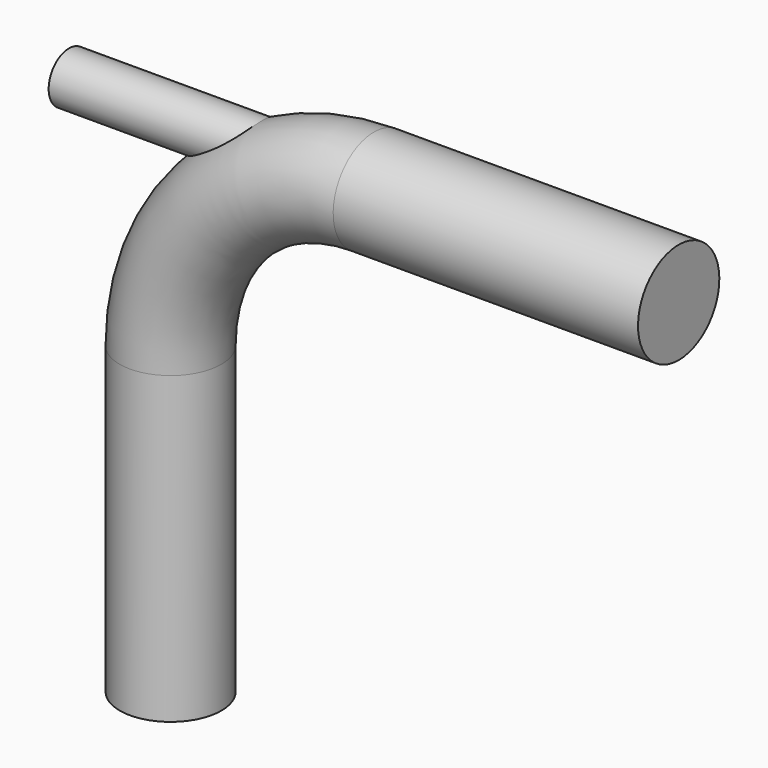
from build123d import *

# Parameters (mm, degrees)
F1_R     = 12.7
F4_R     = 6.35
F5_DEPTH = 75


with BuildPart() as f2:
    # F2: sweep along a path in F0
    with BuildLine(Plane.XZ) as f2_path:
        Line((0, 0), (0, 76.2))
        ThreePointArc((0, 76.2), (14.8789755157, 112.1210244843), (50.8, 127))
        Line((50.8, 127), (127, 127))
    # F1 (on Top) → F2 (sweep)
    with BuildSketch(Plane.XY):
        Circle(F1_R)
    sweep(path=f2_path.line)

    # F4 (on offset) → F5 (join)
    with BuildSketch(Plane.YZ.offset(-25.4)):
        with Locations((0, 127)):
            Circle(F4_R)
    extrude(amount=F5_DEPTH)


solid = f2.part
